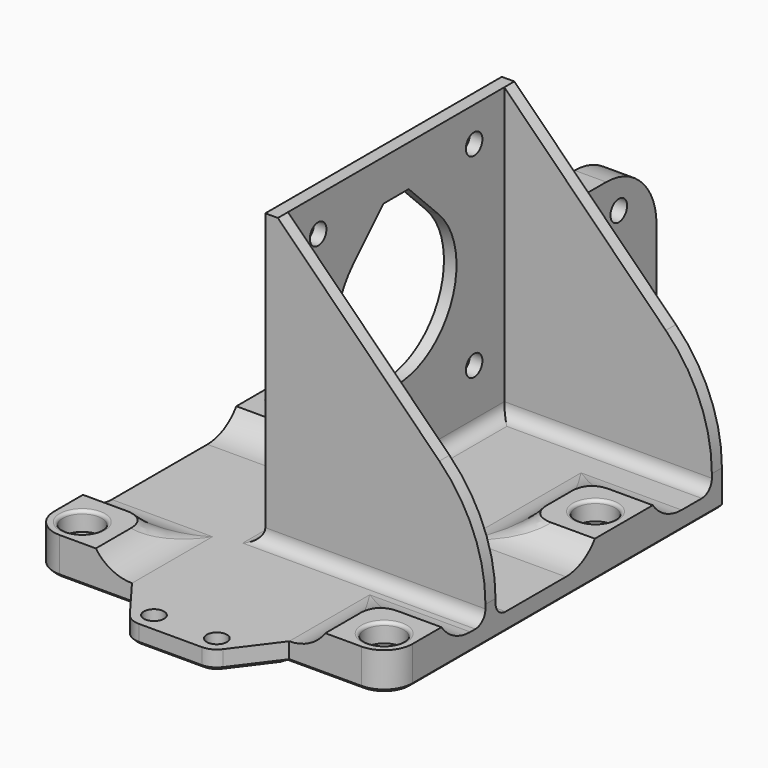
from build123d import *

# Parameters (mm, degrees)
SKETCH_R        = 1.65
PAD_DEPTH       = 10
POCKET_DEPTH    = 70.001
POCKET001_DEPTH = 57.001
FILLET_R        = 4
SKETCH003_R     = 3.1
POCKET002_DEPTH = 7
SKETCH004_W     = 60
SKETCH004_H     = 10
POCKET003_DEPTH = 57.001
PAD001_DEPTH    = 46
CHAMFER_SIZE    = 33
FILLET001_R     = 2
SKETCH006_R     = 1.65
POCKET004_DEPTH = 5
FILLET002_R     = 25
FILLET003_R     = 0.5
CHAMFER001_SIZE = 0.5
POCKET005_DEPTH = 5
FILLET004_R     = 2
SKETCH009_W     = 25
SKETCH009_H     = 30
SKETCH009_R     = 1.65
PAD002_DEPTH    = 5
FILLET005_R     = 10
CHAMFER002_SIZE = 5
FILLET006_R     = 3
SKETCH010_R     = 1.6
PAD003_DEPTH    = 3
CHAMFER003_SIZE = 0.49
CHAMFER004_SIZE = 0.5
CHAMFER005_SIZE = 0.5


with BuildPart() as part:
    # Sketch → Pad (new body)
    with BuildSketch(Plane.XY):
        with BuildLine():
            ThreePointArc((-28.5, -21), (-27.181981, -24.18198), (-24, -25.5))
            Line((-24, -25.5), (24, -25.5))
            ThreePointArc((24, -25.5), (27.181981, -24.18198), (28.5, -21))
            Line((28.5, -21), (28.5, 40.5))
            Line((24.5, 44.5), (28.5, 40.5))
            Line((-24.5, 44.5), (24.5, 44.5))
            Line((-28.5, 40.5), (-24.5, 44.5))
            Line((-28.5, -21), (-28.5, 40.5))
        make_face()
        with Locations((-24, 21)):
            Circle(SKETCH_R, mode=Mode.SUBTRACT)
        with Locations((24, 21)):
            Circle(SKETCH_R, mode=Mode.SUBTRACT)
        with Locations((-24, -21)):
            Circle(SKETCH_R, mode=Mode.SUBTRACT)
        with Locations((24, -21)):
            Circle(SKETCH_R, mode=Mode.SUBTRACT)
    extrude(amount=PAD_DEPTH)

    # Sketch001 → Pocket (cut, through all)
    with BuildSketch(Plane.XZ.offset(25.5)):
        with BuildLine():
            ThreePointArc((-12.5, 17), (-19.5, 10), (-12.5, 3))
            Line((-12.5, 3), (12.5, 3))
            ThreePointArc((12.5, 3), (19.5, 10), (12.5, 17))
            Line((-12.5, 17), (12.5, 17))
        make_face()
    extrude(amount=-POCKET_DEPTH, mode=Mode.SUBTRACT)

    # Sketch002 → Pocket001 (cut, through all)
    with BuildSketch(Plane.YZ.offset(28.5)):
        with BuildLine():
            ThreePointArc((-9.5, 17), (-16.5, 10), (-9.5, 3))
            Line((-9.5, 3), (9.5, 3))
            ThreePointArc((9.5, 3), (16.5, 10), (9.5, 17))
            Line((-9.5, 17), (9.5, 17))
        make_face()
        with BuildLine():
            ThreePointArc((32.5, 17), (25.5, 10), (32.5, 3))
            Line((32.5, 3), (51.5, 3))
            ThreePointArc((51.5, 3), (58.5, 10), (51.5, 17))
            Line((32.5, 17), (51.5, 17))
        make_face()
    extrude(amount=-POCKET001_DEPTH, mode=Mode.SUBTRACT)

    # Fillet
    fillet_edges = [part.edges().sort_by_distance(p)[0] for p in [
        (-17.022345, 14.022345, 4.65693),
        (-17.022345, 27.977655, 4.65693),
        (-17.022345, -14.022345, 4.65693),
        (17.022342, -14.022342, 4.656928),
        (17.022342, 27.977658, 4.656928),
        (17.022342, 14.022342, 4.656928),
    ]]
    fillet(fillet_edges, radius=FILLET_R)

    # Sketch003 → Pocket002 (cut)
    with BuildSketch(Plane.XY.offset(10)):
        with Locations((-24, 21)):
            Circle(SKETCH003_R)
        with Locations((24, 21)):
            Circle(SKETCH003_R)
        with Locations((-24, -21)):
            Circle(SKETCH003_R)
        with Locations((24, -21)):
            Circle(SKETCH003_R)
    extrude(amount=-POCKET002_DEPTH, mode=Mode.SUBTRACT)

    # Sketch004 → Pocket003 (cut, through all)
    with BuildSketch(Plane.YZ.offset(28.5)):
        with Locations((0, 11)):
            Rectangle(SKETCH004_W, SKETCH004_H)
    extrude(amount=-POCKET003_DEPTH, mode=Mode.SUBTRACT)

    # Sketch005 → Pad001 (new body)
    with BuildSketch(Plane.XY.offset(3)):
        Polygon((28.5, -6.5), (-6.5, -6.5), (-6.5, 40.5), (28.5, 40.5), (28.5, 38.5), (-4.5, 38.5), (-4.5, -4.5), (28.5, -4.5), align=None)
    extrude(amount=PAD001_DEPTH)

    # Chamfer
    chamfer_edges = [part.edges().sort_by_distance(p)[0] for p in [
        (28.5, -5.5, 49),
        (28.5, 39.5, 49),
    ]]
    chamfer(chamfer_edges, length=CHAMFER_SIZE)

    # Fillet001
    fillet001_edges = [part.edges().sort_by_distance(p)[0] for p in [
        (11, -6.5, 3),
        (12, 38.5, 3),
        (11, 40.5, 3),
        (-4.5, 17, 3),
        (12, -4.5, 3),
        (-6.5, 17, 3),
    ]]
    fillet(fillet001_edges, radius=FILLET001_R)

    # Sketch006 → Pocket004 (cut)
    with BuildSketch(Plane(origin=(-6.5, 0, 0), x_dir=(0, -1, 0), z_dir=(-1, 0, 0))):
        with Locations((-32.5, 43.5)):
            Circle(SKETCH006_R)
        with Locations((-1.5, 43.5)):
            Circle(SKETCH006_R)
        with Locations((-32.5, 12.5)):
            Circle(SKETCH006_R)
        with Locations((-1.5, 12.5)):
            Circle(SKETCH006_R)
        with BuildLine():
            ThreePointArc((-25.485282, 36.485281), (-17, 16), (-8.514718, 36.485281))
            Line((-14.500001, 42.470563), (-8.514718, 36.485281))
            Line((-19.500001, 42.470563), (-14.500001, 42.470563))
            Line((-25.485282, 36.485281), (-19.500001, 42.470563))
        make_face()
    extrude(amount=-POCKET004_DEPTH, mode=Mode.SUBTRACT)

    # Fillet002
    fillet002_edges = [part.edges().sort_by_distance(p)[0] for p in [
        (28.5, -5.5, 16),
        (28.5, 39.5, 16),
    ]]
    fillet(fillet002_edges, radius=FILLET002_R)

    # Fillet003
    fillet003_edges = [part.edges().sort_by_distance(p)[0] for p in [
        (-27.1, 21, 6),
        (20.9, 21, 6),
        (20.9, -21, 6),
        (-27.1, -21, 6),
    ]]
    fillet(fillet003_edges, radius=FILLET003_R)

    # Chamfer001
    chamfer001_edges = [part.edges().sort_by_distance(p)[0] for p in [
        (-27.181981, -24.18198, 0),
        (0, -25.5, 0),
        (27.181981, -24.18198, 0),
        (28.5, 9.75, 0),
        (26.5, 42.5, 0),
        (0, 44.5, 0),
        (-26.5, 42.5, 0),
        (-28.5, 9.75, 0),
        (22.35, -21, 0),
        (-25.65, -21, 0),
        (22.35, 21, 0),
        (-25.65, 21, 0),
    ]]
    chamfer(chamfer001_edges, length=CHAMFER001_SIZE)

    # Sketch007 → Pocket005 (cut)
    with BuildSketch(Plane.XY.offset(3)):
        with BuildLine():
            ThreePointArc((-17.5, 32.6), (-12.55024, 34.650265), (-10.5, 39.600034))
            Line((-10.5, 45.5), (-10.5, 39.600034))
            Line((-29.5, 45.5), (-10.5, 45.5))
            Line((-29.5, 32.6), (-29.5, 45.5))
            Line((-17.5, 32.6), (-29.5, 32.6))
        make_face()
    extrude(amount=-POCKET005_DEPTH, mode=Mode.SUBTRACT)

    # Fillet004
    fillet004_edges = [part.edges().sort_by_distance(p)[0] for p in [
        (-10.5, 44.5, 1.75),
        (-28.5, 32.6, 1.75),
    ]]
    fillet(fillet004_edges, radius=FILLET004_R)

    # Sketch009 → Pad002 (new body)
    with BuildSketch(Plane(origin=(-6.5, 0, 0), x_dir=(0, -1, 0), z_dir=(-1, 0, 0))):
        with Locations((-52.5, 15)):
            Rectangle(SKETCH009_W, SKETCH009_H)
        with Locations((-57.5, 25)):
            Circle(SKETCH009_R, mode=Mode.SUBTRACT)
        with Locations((-47.5, 25)):
            Circle(SKETCH009_R, mode=Mode.SUBTRACT)
        with Locations((-57.5, 5)):
            Circle(SKETCH009_R, mode=Mode.SUBTRACT)
        with Locations((-47.5, 5)):
            Circle(SKETCH009_R, mode=Mode.SUBTRACT)
        with Locations((-57.5, 15)):
            Circle(SKETCH009_R, mode=Mode.SUBTRACT)
        with Locations((-47.5, 15)):
            Circle(SKETCH009_R, mode=Mode.SUBTRACT)
    extrude(amount=-PAD002_DEPTH)

    # Fillet005
    fillet005_edges = [part.edges().sort_by_distance(p)[0] for p in [
        (-4, 65, 30),
        (-4, 40.5, 30),
    ]]
    fillet(fillet005_edges, radius=FILLET005_R)

    # Chamfer002
    chamfer002_edges = [part.edges().sort_by_distance(p)[0] for p in [
        (-4, 65, 0),
    ]]
    chamfer(chamfer002_edges, length=CHAMFER002_SIZE)

    # Fillet006
    fillet006_edges = [part.edges().sort_by_distance(p)[0] for p in [
        (-1.5, 40.5, 17.5),
    ]]
    fillet(fillet006_edges, radius=FILLET006_R)

    # Sketch010 → Pad003 (new body)
    with BuildSketch(Plane.XY.offset(3)):
        with BuildLine():
            ThreePointArc((-7.399989, -32.300015), (-6.341624, -33.18329), (-4.999981, -33.5))
            Line((-4.999981, -33.5), (4.999981, -33.5))
            ThreePointArc((4.999981, -33.5), (6.341624, -33.18329), (7.399989, -32.300015))
            Line((7.399989, -32.300015), (12.5, -25.5))
            Line((-12.5, -25.5), (12.5, -25.5))
            Line((-7.399989, -32.300015), (-12.5, -25.5))
        make_face()
        with Locations((-5, -30.5)):
            Circle(SKETCH010_R, mode=Mode.SUBTRACT)
        with Locations((5, -30.5)):
            Circle(SKETCH010_R, mode=Mode.SUBTRACT)
    extrude(amount=-PAD003_DEPTH)

    # Chamfer003
    chamfer003_edges = [part.edges().sort_by_distance(p)[0] for p in [
        (-9.949994, -28.900008, 0),
        (0, -25.5, 0),
        (9.949994, -28.900008, 0),
        (6.341624, -33.18329, 0),
        (0, -33.5, 0),
        (-6.341624, -33.18329, 0),
        (3.4, -30.5, 0),
        (-6.6, -30.5, 0),
    ]]
    chamfer(chamfer003_edges, length=CHAMFER003_SIZE)

    # Chamfer004
    chamfer004_edges = [part.edges().sort_by_distance(p)[0] for p in [
        (-6.5, 52, 0),
        (-1.5, 52, 0),
    ]]
    chamfer(chamfer004_edges, length=CHAMFER004_SIZE)

    # Chamfer005
    chamfer005_edges = [part.edges().sort_by_distance(p)[0] for p in [
        (-12.55024, 34.650265, 0),
    ]]
    chamfer(chamfer005_edges, length=CHAMFER005_SIZE)


solid = part.part
